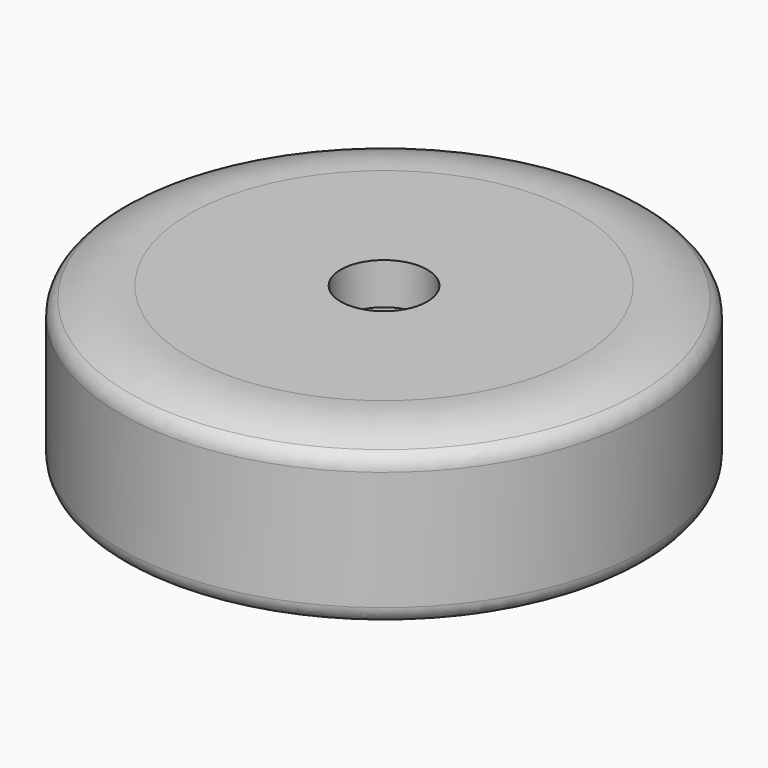
from build123d import *

# Parameters (mm, degrees)
F2_R     = 3.55
F3_DEPTH = 50.1686232636
F2_R_2   = 12.5
F4_DEPTH = 12
F5_START = -38
F5_DEPTH = 12
F6_R     = 5


with BuildPart() as f1:
    # F0 (on Right) → F1 (revolve)
    with BuildSketch(Plane.YZ):
        with BuildLine():
            Line((-56.2, 0), (0, 0))
            Line((0, 0), (0, 50))
            Line((0, 50), (-56.2, 50))
            ThreePointArc((-56.2, 50), (-66.642974542, 49.2718981679), (-76.2, 45))
            Line((-76.2, 45), (-76.2, 5))
            ThreePointArc((-76.2, 5), (-66.642974542, 0.7281018321), (-56.2, 0))
        make_face()
    revolve(axis=Axis((0, 0, 25), (0, 0, 1)))

    # F2 (on face) → F3 (cut, through all)
    with BuildSketch(Plane.XY.offset(50)):
        Circle(F2_R)
    extrude(amount=-F3_DEPTH, mode=Mode.SUBTRACT)

    # F2 (on face) → F4 (cut)
    with BuildSketch(Plane.XY.offset(50)):
        Circle(F2_R_2)
        Polygon((-6.9282032303, 0), (-3.4641016151, 6), (3.4641016151, 6), (6.9282032303, 0), (3.4641016151, -6), (-3.4641016151, -6), align=None, mode=Mode.SUBTRACT)
        Polygon((3.4641016151, 6), (-3.4641016151, 6), (-6.9282032303, 0), (-3.4641016151, -6), (3.4641016151, -6), (6.9282032303, 0), align=None)
        Circle(F2_R, mode=Mode.SUBTRACT)
    extrude(amount=-F4_DEPTH, mode=Mode.SUBTRACT)

    # F2 (on face) → F5 (cut)
    with BuildSketch(Plane.XY.offset(50).offset(F5_START)):
        Circle(F2_R_2)
        Polygon((-6.9282032303, 0), (-3.4641016151, 6), (3.4641016151, 6), (6.9282032303, 0), (3.4641016151, -6), (-3.4641016151, -6), align=None, mode=Mode.SUBTRACT)
        Polygon((3.4641016151, 6), (-3.4641016151, 6), (-6.9282032303, 0), (-3.4641016151, -6), (3.4641016151, -6), (6.9282032303, 0), align=None)
        Circle(F2_R, mode=Mode.SUBTRACT)
    extrude(amount=-F5_DEPTH, mode=Mode.SUBTRACT)

    # F6
    f6_edges = [f1.edges().sort_by_distance(p)[0] for p in [
        (0, 76.2, 45),
        (0, 76.2, 5),
    ]]
    fillet(f6_edges, radius=F6_R)


solid = f1.part
